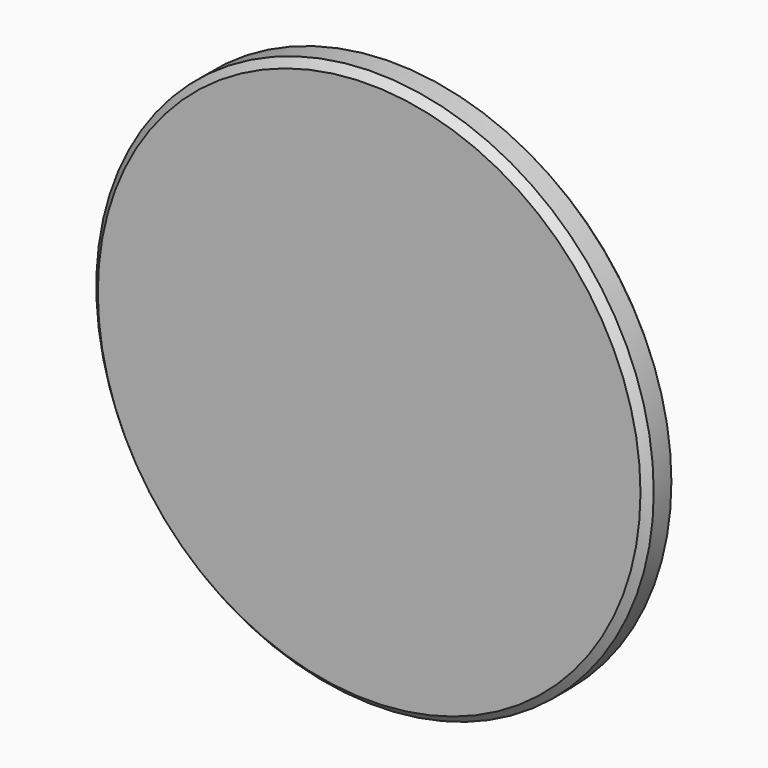
from build123d import *

# Parameters (mm, degrees)
SKETCH001_R     = 28.5
PAD_DEPTH       = 5
SKETCH002_R     = 37.875
PAD001_DEPTH    = 5
CHAMFER_SIZE    = 1
CHAMFER001_SIZE = 0.75


with BuildPart() as part:
    # Sketch001 → Pad (new body)
    with BuildSketch(Plane.XZ.offset(29)):
        Circle(SKETCH001_R)
    extrude(amount=PAD_DEPTH)

    # Sketch002 (on Face3 of Pad) → Pad001 (join)
    with BuildSketch(Plane.XZ.offset(34)):
        Circle(SKETCH002_R)
    extrude(amount=PAD001_DEPTH)

    # Chamfer
    chamfer_edges = [part.edges().sort_by_distance(p)[0] for p in [
        (-37.875, -39, 0),
        (-37.875, -34, 0),
    ]]
    chamfer(chamfer_edges, length=CHAMFER_SIZE)

    # Chamfer001
    chamfer001_edges = [part.edges().sort_by_distance(p)[0] for p in [
        (-28.5, -29, 0),
    ]]
    chamfer(chamfer001_edges, length=CHAMFER001_SIZE)


solid = part.part
